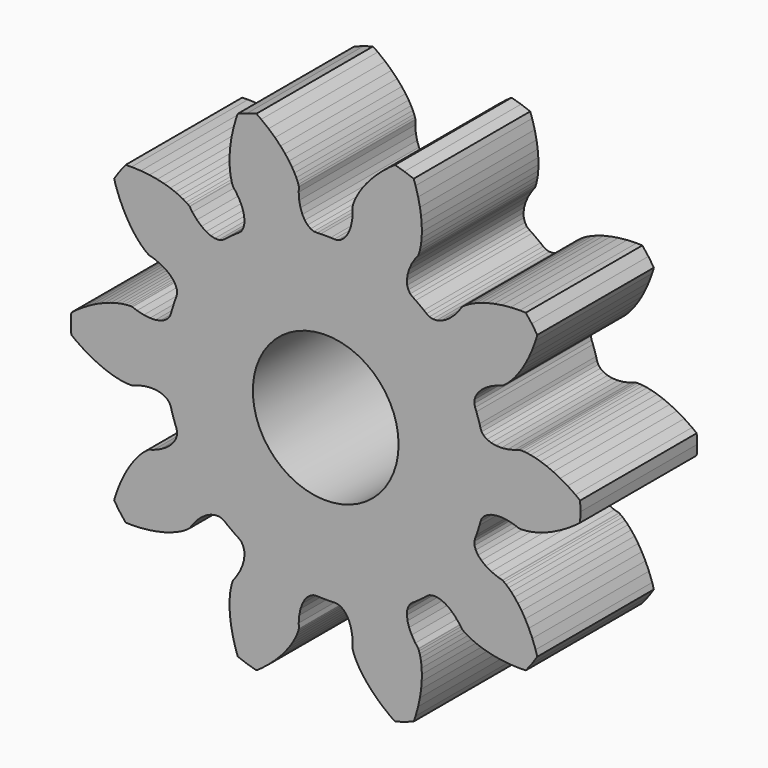
from build123d import *

# Parameters (mm, degrees)
F1_R     = 1.5
F2_DEPTH = 3


with BuildPart() as f2:
    # F1 (on Front) → F2 (new body)
    with BuildSketch(Plane.XZ):
        Polygon((3.998341, -3.244406), (4.118917, -3.241649), (4.242485, -3.082346), (4.355806, -2.915599), (4.321168, -2.800071), (4.253993, -2.618378), (4.18198, -2.455795), (4.107237, -2.312157), (4.031832, -2.187108), (3.957771, -2.080111), (3.886988, -1.990453), (3.821329, -1.917249), (3.76254, -1.859457), (3.712251, -1.815881), (3.671969, -1.785183), (3.643062, -1.765897), (3.636765, -1.762246), (3.541432, -1.735431), (3.408235, -1.680342), (3.296, -1.616456), (3.205239, -1.54619), (3.136241, -1.471988), (3.089076, -1.396298), (3.06359, -1.321558), (3.059412, -1.250178), (3.075953, -1.18452), (3.102674, -1.117031), (3.166691, -0.920009), (3.184742, -0.849704), (3.209953, -0.786862), (3.255289, -0.73157), (3.319838, -0.686085), (3.402485, -0.652573), (3.50192, -0.633098), (3.616649, -0.6296), (3.745, -0.643885), (3.88514, -0.677608), (3.978027, -0.71195), (3.985267, -0.712697), (4.019989, -0.714086), (4.070622, -0.712928), (4.13692, -0.707233), (4.218451, -0.695034), (4.314598, -0.674404), (4.424563, -0.643474), (4.547371, -0.600444), (4.681877, -0.5436), (4.826773, -0.471326), (4.980597, -0.382122), (5.141739, -0.274614), (5.237667, -0.20151), (5.244, 0), (5.237667, 0.20151), (5.141739, 0.274614), (4.980597, 0.382122), (4.826773, 0.471326), (4.681877, 0.5436), (4.547371, 0.600444), (4.424563, 0.643474), (4.314598, 0.674404), (4.218451, 0.695034), (4.13692, 0.707233), (4.070622, 0.712928), (4.019989, 0.714086), (3.985267, 0.712697), (3.978027, 0.71195), (3.88514, 0.677608), (3.745, 0.643885), (3.616649, 0.6296), (3.50192, 0.633098), (3.402485, 0.652573), (3.319838, 0.686085), (3.255289, 0.73157), (3.209953, 0.786862), (3.184742, 0.849704), (3.166691, 0.920009), (3.102674, 1.117031), (3.075953, 1.18452), (3.059412, 1.250178), (3.06359, 1.321558), (3.089076, 1.396298), (3.136241, 1.471988), (3.205239, 1.54619), (3.296, 1.616456), (3.408235, 1.680342), (3.541432, 1.735431), (3.636765, 1.762246), (3.643062, 1.765897), (3.671969, 1.785183), (3.712251, 1.815881), (3.76254, 1.859457), (3.821329, 1.917249), (3.886988, 1.990453), (3.957771, 2.080111), (4.031832, 2.187108), (4.107237, 2.312157), (4.18198, 2.455795), (4.253993, 2.618378), (4.321168, 2.800071), (4.355806, 2.915599), (4.242485, 3.082346), (4.118917, 3.241649), (3.998341, 3.244406), (3.804781, 3.236665), (3.627903, 3.218417), (3.468198, 3.191719), (3.325968, 3.158647), (3.201322, 3.121275), (3.094178, 3.081662), (3.004268, 3.041838), (2.931138, 3.003784), (2.874154, 2.969422), (2.83251, 2.940598), (2.805236, 2.919066), (2.799818, 2.914205), (2.744856, 2.831825), (2.651303, 2.72217), (2.555861, 2.63517), (2.460988, 2.570564), (2.369095, 2.527873), (2.282535, 2.506406), (2.203578, 2.505264), (2.1344, 2.523347), (2.077067, 2.559369), (2.021139, 2.605637), (1.853541, 2.727403), (1.792255, 2.766297), (1.74028, 2.809693), (1.701704, 2.869896), (1.678392, 2.945342), (1.67206, 3.034299), (1.684265, 3.134886), (1.716391, 3.24508), (1.76964, 3.362735), (1.845018, 3.485595), (1.906383, 3.563324), (1.909331, 3.569979), (1.921381, 3.602572), (1.935926, 3.651085), (1.950997, 3.715898), (1.964589, 3.797208), (1.974681, 3.895024), (1.979246, 4.009165), (1.976271, 4.139259), (1.963773, 4.284748), (1.939812, 4.444886), (1.902509, 4.618747), (1.850058, 4.805224), (1.810176, 4.919048), (1.620485, 4.98734), (1.426881, 5.043588), (1.327712, 4.974945), (1.175669, 4.854911), (1.043297, 4.736181), (0.929786, 4.620711), (0.834158, 4.510354), (0.755285, 4.406854), (0.691888, 4.311829), (0.642557, 4.226763), (0.60576, 4.152992), (0.579856, 4.091698), (0.563109, 4.043902), (0.5537, 4.01045), (0.552173, 4.003333), (0.55613, 3.90438), (0.544898, 3.760678), (0.518821, 3.634195), (0.480041, 3.526162), (0.430792, 3.437612), (0.373381, 3.369365), (0.310175, 3.322031), (0.24358, 3.296), (0.176023, 3.291442), (0.103581, 3.296), (-0.103581, 3.296), (-0.176023, 3.291442), (-0.24358, 3.296), (-0.310175, 3.322031), (-0.373381, 3.369365), (-0.430792, 3.437612), (-0.480041, 3.526162), (-0.518821, 3.634195), (-0.544898, 3.760678), (-0.55613, 3.90438), (-0.552173, 4.003333), (-0.5537, 4.01045), (-0.563109, 4.043902), (-0.579856, 4.091698), (-0.60576, 4.152992), (-0.642557, 4.226763), (-0.691888, 4.311829), (-0.755285, 4.406854), (-0.834158, 4.510354), (-0.929786, 4.620711), (-1.043297, 4.736181), (-1.175669, 4.854911), (-1.327712, 4.974945), (-1.426881, 5.043588), (-1.620485, 4.98734), (-1.810176, 4.919048), (-1.850058, 4.805224), (-1.902509, 4.618747), (-1.939812, 4.444886), (-1.963773, 4.284748), (-1.976271, 4.139259), (-1.979246, 4.009165), (-1.974681, 3.895024), (-1.964589, 3.797208), (-1.950997, 3.715898), (-1.935926, 3.651085), (-1.921381, 3.602572), (-1.909331, 3.569979), (-1.906383, 3.563324), (-1.845018, 3.485595), (-1.76964, 3.362735), (-1.716391, 3.24508), (-1.684265, 3.134886), (-1.67206, 3.034299), (-1.678392, 2.945342), (-1.701704, 2.869896), (-1.74028, 2.809693), (-1.792255, 2.766297), (-1.853541, 2.727403), (-2.021139, 2.605637), (-2.077067, 2.559369), (-2.1344, 2.523347), (-2.203578, 2.505264), (-2.282535, 2.506406), (-2.369095, 2.527873), (-2.460988, 2.570564), (-2.555861, 2.63517), (-2.651303, 2.72217), (-2.744856, 2.831825), (-2.799818, 2.914205), (-2.805236, 2.919066), (-2.83251, 2.940598), (-2.874154, 2.969422), (-2.931138, 3.003784), (-3.004268, 3.041838), (-3.094178, 3.081662), (-3.201322, 3.121275), (-3.325968, 3.158647), (-3.468198, 3.191719), (-3.627903, 3.218417), (-3.804781, 3.236665), (-3.998341, 3.244406), (-4.118917, 3.241649), (-4.242485, 3.082346), (-4.355806, 2.915599), (-4.321168, 2.800071), (-4.253993, 2.618378), (-4.18198, 2.455795), (-4.107237, 2.312157), (-4.031832, 2.187108), (-3.957771, 2.080111), (-3.886988, 1.990453), (-3.821329, 1.917249), (-3.76254, 1.859457), (-3.712251, 1.815881), (-3.671969, 1.785183), (-3.643062, 1.765897), (-3.636765, 1.762246), (-3.541432, 1.735431), (-3.408235, 1.680342), (-3.296, 1.616456), (-3.205239, 1.54619), (-3.136241, 1.471988), (-3.089076, 1.396298), (-3.06359, 1.321558), (-3.059412, 1.250178), (-3.075953, 1.18452), (-3.102674, 1.117031), (-3.166691, 0.920009), (-3.184742, 0.849704), (-3.209953, 0.786862), (-3.255289, 0.73157), (-3.319838, 0.686085), (-3.402485, 0.652573), (-3.50192, 0.633098), (-3.616649, 0.6296), (-3.745, 0.643885), (-3.88514, 0.677608), (-3.978027, 0.71195), (-3.985267, 0.712697), (-4.019989, 0.714086), (-4.070622, 0.712928), (-4.13692, 0.707233), (-4.218451, 0.695034), (-4.314598, 0.674404), (-4.424563, 0.643474), (-4.547371, 0.600444), (-4.681877, 0.5436), (-4.826773, 0.471326), (-4.980597, 0.382122), (-5.141739, 0.274614), (-5.237667, 0.20151), (-5.244, 0), (-5.237667, -0.20151), (-5.141739, -0.274614), (-4.980597, -0.382122), (-4.826773, -0.471326), (-4.681877, -0.5436), (-4.547371, -0.600444), (-4.424563, -0.643474), (-4.314598, -0.674404), (-4.218451, -0.695034), (-4.13692, -0.707233), (-4.070622, -0.712928), (-4.019989, -0.714086), (-3.985267, -0.712697), (-3.978027, -0.71195), (-3.88514, -0.677608), (-3.745, -0.643885), (-3.616649, -0.6296), (-3.50192, -0.633098), (-3.402485, -0.652573), (-3.319838, -0.686085), (-3.255289, -0.73157), (-3.209953, -0.786862), (-3.184742, -0.849704), (-3.166691, -0.920009), (-3.102674, -1.117031), (-3.075953, -1.18452), (-3.059412, -1.250178), (-3.06359, -1.321558), (-3.089076, -1.396298), (-3.136241, -1.471988), (-3.205239, -1.54619), (-3.296, -1.616456), (-3.408235, -1.680342), (-3.541432, -1.735431), (-3.636765, -1.762246), (-3.643062, -1.765897), (-3.671969, -1.785183), (-3.712251, -1.815881), (-3.76254, -1.859457), (-3.821329, -1.917249), (-3.886988, -1.990453), (-3.957771, -2.080111), (-4.031832, -2.187108), (-4.107237, -2.312157), (-4.18198, -2.455795), (-4.253993, -2.618378), (-4.321168, -2.800071), (-4.355806, -2.915599), (-4.242485, -3.082346), (-4.118917, -3.241649), (-3.998341, -3.244406), (-3.804781, -3.236665), (-3.627903, -3.218417), (-3.468198, -3.191719), (-3.325968, -3.158647), (-3.201322, -3.121275), (-3.094178, -3.081662), (-3.004268, -3.041838), (-2.931138, -3.003784), (-2.874154, -2.969422), (-2.83251, -2.940598), (-2.805236, -2.919066), (-2.799818, -2.914205), (-2.744856, -2.831825), (-2.651303, -2.72217), (-2.555861, -2.63517), (-2.460988, -2.570564), (-2.369095, -2.527873), (-2.282535, -2.506406), (-2.203578, -2.505264), (-2.1344, -2.523347), (-2.077067, -2.559369), (-2.021139, -2.605637), (-1.853541, -2.727403), (-1.792255, -2.766297), (-1.74028, -2.809693), (-1.701704, -2.869896), (-1.678392, -2.945342), (-1.67206, -3.034299), (-1.684265, -3.134886), (-1.716391, -3.24508), (-1.76964, -3.362735), (-1.845018, -3.485595), (-1.906383, -3.563324), (-1.909331, -3.569979), (-1.921381, -3.602572), (-1.935926, -3.651085), (-1.950997, -3.715898), (-1.964589, -3.797208), (-1.974681, -3.895024), (-1.979246, -4.009165), (-1.976271, -4.139259), (-1.963773, -4.284748), (-1.939812, -4.444886), (-1.902509, -4.618747), (-1.850058, -4.805224), (-1.810176, -4.919048), (-1.620485, -4.98734), (-1.426881, -5.043588), (-1.327712, -4.974945), (-1.175669, -4.854911), (-1.043297, -4.736181), (-0.929786, -4.620711), (-0.834158, -4.510354), (-0.755285, -4.406854), (-0.691888, -4.311829), (-0.642557, -4.226763), (-0.60576, -4.152992), (-0.579856, -4.091698), (-0.563109, -4.043902), (-0.5537, -4.01045), (-0.552173, -4.003333), (-0.55613, -3.90438), (-0.544898, -3.760678), (-0.518821, -3.634195), (-0.480041, -3.526162), (-0.430792, -3.437612), (-0.373381, -3.369365), (-0.310175, -3.322031), (-0.24358, -3.296), (-0.176023, -3.291442), (-0.103581, -3.296), (0.103581, -3.296), (0.176023, -3.291442), (0.24358, -3.296), (0.310175, -3.322031), (0.373381, -3.369365), (0.430792, -3.437612), (0.480041, -3.526162), (0.518821, -3.634195), (0.544898, -3.760678), (0.55613, -3.90438), (0.552173, -4.003333), (0.5537, -4.01045), (0.563109, -4.043902), (0.579856, -4.091698), (0.60576, -4.152992), (0.642557, -4.226763), (0.691888, -4.311829), (0.755285, -4.406854), (0.834158, -4.510354), (0.929786, -4.620711), (1.043297, -4.736181), (1.175669, -4.854911), (1.327712, -4.974945), (1.426881, -5.043588), (1.620485, -4.98734), (1.810176, -4.919048), (1.850058, -4.805224), (1.902509, -4.618747), (1.939812, -4.444886), (1.963773, -4.284748), (1.976271, -4.139259), (1.979246, -4.009165), (1.974681, -3.895024), (1.964589, -3.797208), (1.950997, -3.715898), (1.935926, -3.651085), (1.921381, -3.602572), (1.909331, -3.569979), (1.906383, -3.563324), (1.845018, -3.485595), (1.76964, -3.362735), (1.716391, -3.24508), (1.684265, -3.134886), (1.67206, -3.034299), (1.678392, -2.945342), (1.701704, -2.869896), (1.74028, -2.809693), (1.792255, -2.766297), (1.853541, -2.727403), (2.021139, -2.605637), (2.077067, -2.559369), (2.1344, -2.523347), (2.203578, -2.505264), (2.282535, -2.506406), (2.369095, -2.527873), (2.460988, -2.570564), (2.555861, -2.63517), (2.651303, -2.72217), (2.744856, -2.831825), (2.799818, -2.914205), (2.805236, -2.919066), (2.83251, -2.940598), (2.874154, -2.969422), (2.931138, -3.003784), (3.004268, -3.041838), (3.094178, -3.081662), (3.201322, -3.121275), (3.325968, -3.158647), (3.468198, -3.191719), (3.627903, -3.218417), (3.804781, -3.236665), align=None)
        Circle(F1_R, mode=Mode.SUBTRACT)
    extrude(amount=F2_DEPTH)


solid = f2.part
